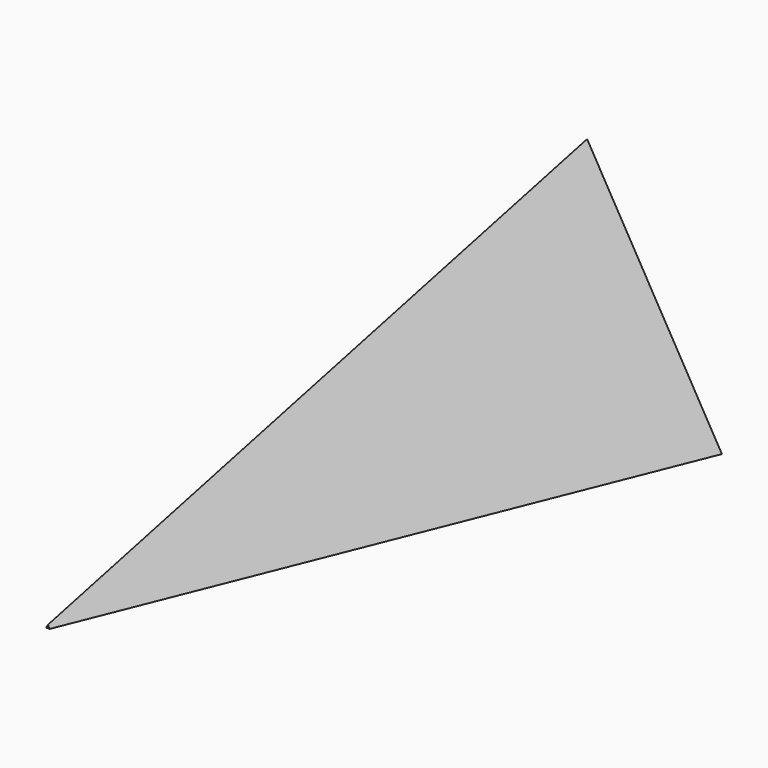
from build123d import *

# Parameters (mm, degrees)
F1_DEPTH = 254
F1_TAPER = 6.5


with BuildPart() as f1:
    # F0 (on Front) → F1 (new body)
    with BuildSketch(Plane.XZ):
        Polygon((-50.8, 0), (0, 0), (50.8, 0), (0, 87.9881810245), align=None)
    extrude(amount=F1_DEPTH, taper=F1_TAPER)


solid = f1.part
